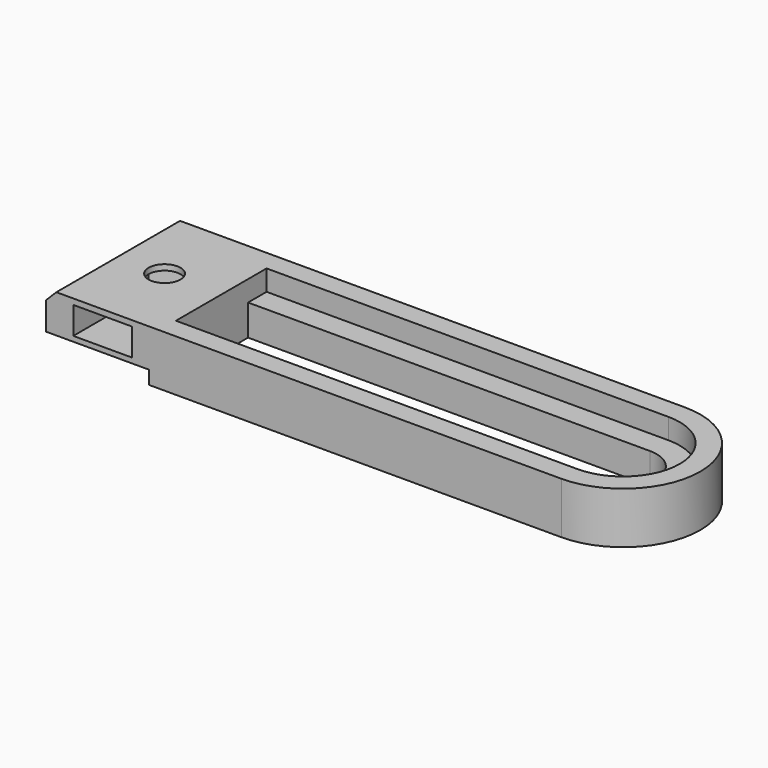
from build123d import *

# Parameters (mm, degrees)
PAD004_DEPTH    = 5
POCKET004_DEPTH = 2.001
PAD005_DEPTH    = 15
SKETCH015_R     = 1.55
POCKET005_DEPTH = 5.001
POCKET006_DEPTH = 2.65


with BuildPart() as part:
    # Sketch013 → Pad004 (new body)
    with BuildSketch(Plane.XY):
        with BuildLine():
            ThreePointArc((0, -7.5), (7.5, 0), (0, 7.5))
            Line((0, 7.5), (-40, 7.5))
            Line((-40, 7.5), (-40, 3.25))
            Line((0, 3.25), (-40, 3.25))
            ThreePointArc((0, -3.25), (3.25, 0), (0, 3.25))
            Line((0, -3.25), (-40, -3.25))
            Line((-40, -3.25), (-40, -7.5))
            Line((0, -7.5), (-40, -7.5))
        make_face()
    extrude(amount=PAD004_DEPTH)

    # Sketch012 → Pocket004 (cut, through all)
    with BuildSketch(Plane.XY.offset(3)):
        with BuildLine():
            ThreePointArc((0, -5.5), (5.5, 0), (0, 5.5))
            Line((0, 5.5), (-40, 5.5))
            ThreePointArc((-40, 5.5), (-45.5, 0), (-40, -5.5))
            Line((0, -5.5), (-40, -5.5))
        make_face()
    extrude(amount=POCKET004_DEPTH, mode=Mode.SUBTRACT)

    # Sketch014 → Pad005 (join)
    with BuildSketch(Plane.XZ.offset(7.5)):
        Polygon((-49, 5), (-50, 4), (-50, 1.3), (-40, 1.3), (-40, 0), (-39, 0), (-39, 5), (-40, 5), align=None)
    extrude(amount=-PAD005_DEPTH)

    # Sketch015 → Pocket005 (cut, through all)
    with BuildSketch(Plane.XY):
        with Locations((-44.5, 0)):
            Circle(SKETCH015_R)
    extrude(amount=POCKET005_DEPTH, mode=Mode.SUBTRACT)

    # Sketch016 → Pocket006 (cut)
    with BuildSketch(Plane.XY.offset(1.8)):
        Polygon((-44.5, 3.3), (-47.357884, 1.65), (-47.357884, -1.65), (-47.357884, -8.65), (-41.642116, -8.65), (-41.642116, -1.65), (-41.642116, 1.65), align=None)
    extrude(amount=POCKET006_DEPTH, mode=Mode.SUBTRACT)


solid = part.part
